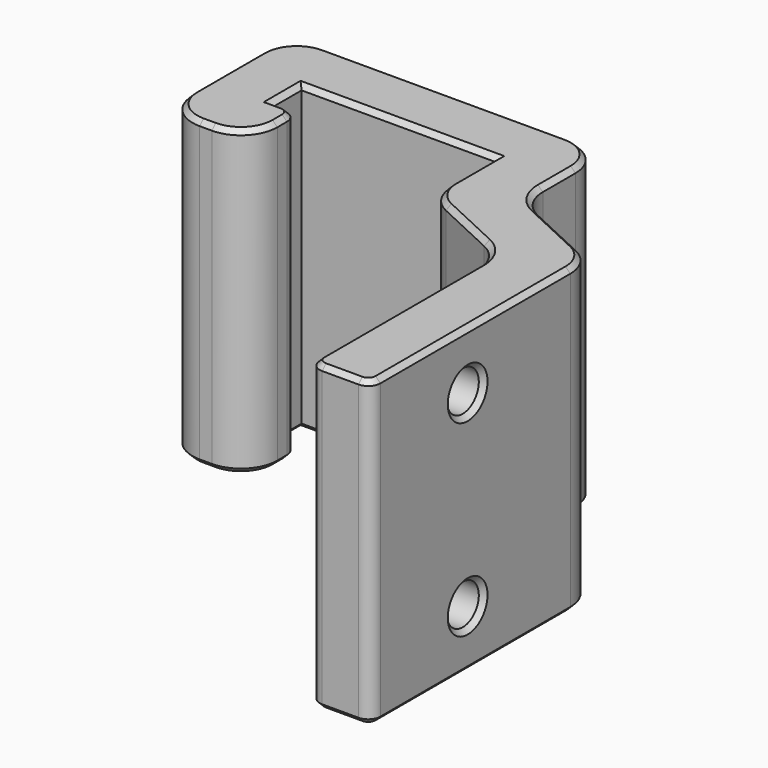
from build123d import *

# Parameters (mm, degrees)
PAD008_DEPTH       = 25
SKETCH034_R        = 1.65
POCKET024_DEPTH    = 5.001
FILLET007_R        = 3
FILLET008_R        = 1
CHAMFER011007_SIZE = 0.4


with BuildPart() as part:
    # Sketch033 → Pad008 (new body)
    with BuildSketch(Plane.XY):
        Polygon((0, -10), (0, 12.5), (-8.5, 16.463615), (-8.5, 24.75), (-34.5, 24.75), (-34.5, 11.75), (-27.5, 11.75), (-27.5, 16.75), (-29.5, 16.75), (-29.5, 19.75), (-13.5, 19.75), (-13.5, 13.278264), (-5, 9.314649), (-5, -10), align=None)
    extrude(amount=PAD008_DEPTH)

    # Sketch034 (on Face13 of Pad008) → Pocket024 (cut, through all)
    with BuildSketch(Plane(origin=(-5, 0, 0), x_dir=(0, -1, 0), z_dir=(-1, 0, 0))):
        with Locations((0, 20.25)):
            Circle(SKETCH034_R)
        with Locations((0, 4.75)):
            Circle(SKETCH034_R)
    extrude(amount=-POCKET024_DEPTH, mode=Mode.SUBTRACT)

    # Fillet007
    fillet007_edges = [part.edges().sort_by_distance(p)[0] for p in [
        (0, 12.5, 12.5),
        (-8.5, 16.463615, 12.5),
        (-8.5, 24.75, 12.5),
        (-34.5, 24.75, 12.5),
        (-27.5, 11.75, 12.5),
        (-34.5, 11.75, 12.5),
        (-13.5, 13.278264, 12.5),
        (-5, 9.314649, 12.5),
    ]]
    fillet(fillet007_edges, radius=FILLET007_R)

    # Fillet008
    fillet008_edges = [part.edges().sort_by_distance(p)[0] for p in [
        (-27.5, 16.75, 12.5),
        (0, -10, 12.5),
        (-5, -10, 12.5),
    ]]
    fillet(fillet008_edges, radius=FILLET008_R)

    # Chamfer011007
    chamfer011007_edges = [part.edges().sort_by_distance(p)[0] for p in [
        (0, 0.794395, 0),
        (-0.292893, -9.707107, 0),
        (-0.469826, 12.200688, 0),
        (-2.5, -10, 0),
        (-4.25, 14.481808, 0),
        (-4.707107, -9.707107, 0),
        (-8.030174, 16.762927, 0),
        (-5, -0.798281, 0),
        (-8.5, 20.062413, 0),
        (-5.469826, 9.015337, 0),
        (-9.37868, 23.87132, 0),
        (-9.25, 11.296456, 0),
        (-21.5, 24.75, 0),
        (-13.030174, 13.577576, 0),
        (-33.62132, 23.87132, 0),
        (-13.5, 17.469737, 0),
        (-34.5, 18.25, 0),
        (-21.5, 19.75, 0),
        (-33.62132, 12.62868, 0),
        (-29.5, 18.25, 0),
        (-31, 11.75, 0),
        (-29, 16.75, 0),
        (-28.37868, 12.62868, 0),
        (-27.792893, 16.457107, 0),
        (-27.5, 15.25, 0),
        (-5, 1.65, 4.75),
        (-5, 1.65, 20.25),
        (0, 0.794395, 25),
        (-0.292893, -9.707107, 25),
        (-0.469826, 12.200688, 25),
        (-2.5, -10, 25),
        (-4.25, 14.481808, 25),
        (-4.707107, -9.707107, 25),
        (-8.030174, 16.762927, 25),
        (-5, -0.798281, 25),
        (-8.5, 20.062413, 25),
        (-5.469826, 9.015337, 25),
        (-9.37868, 23.87132, 25),
        (-9.25, 11.296456, 25),
        (-21.5, 24.75, 25),
        (-13.030174, 13.577576, 25),
        (-33.62132, 23.87132, 25),
        (-13.5, 17.469737, 25),
        (-34.5, 18.25, 25),
        (-21.5, 19.75, 25),
        (-33.62132, 12.62868, 25),
        (-29.5, 18.25, 25),
        (-31, 11.75, 25),
        (-29, 16.75, 25),
        (-28.37868, 12.62868, 25),
        (-27.792893, 16.457107, 25),
        (-27.5, 15.25, 25),
        (0, 1.65, 20.25),
        (0, 1.65, 4.75),
    ]]
    chamfer(chamfer011007_edges, length=CHAMFER011007_SIZE)


with BuildPart() as part_1:
    # Body006009 placement: moved
    add(part.part.moved(Location((-3, 40, 0))))


solid = part_1.part
